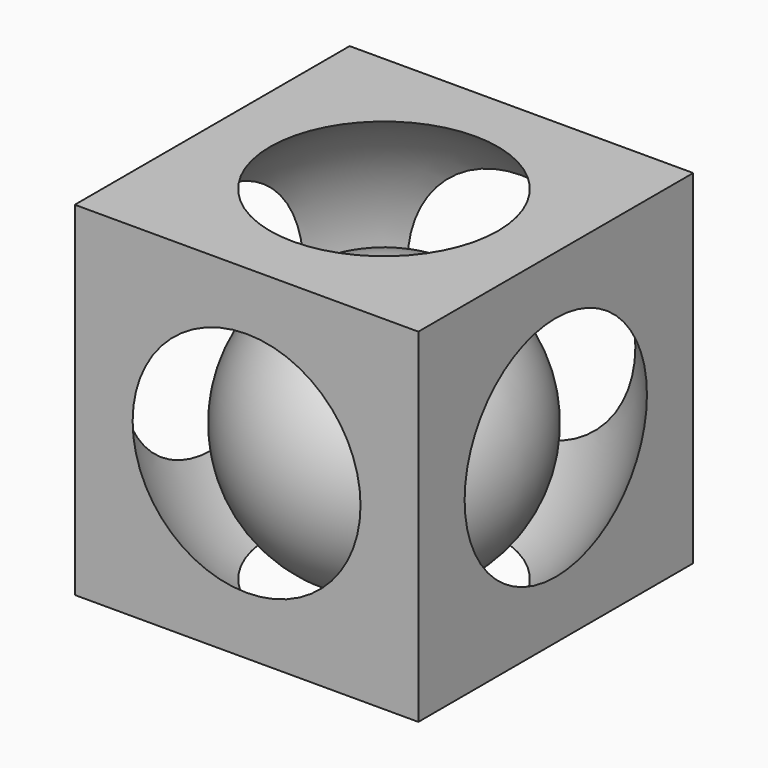
from build123d import *

# Parameters (mm, degrees)
BOX_W     = 30
BOX_H     = 30
BOX_DEPTH = 30


with BuildPart() as esfera_interior:
    # Sphere001 → Sphere001 (revolve)
    with BuildSketch(Plane(origin=(15, 15, 12), x_dir=(1, 0, 0), z_dir=(0, -1, 0))):
        with BuildLine():
            ThreePointArc((0, -12), (12, 0), (0, 12))
            Line((0, 12), (0, -12))
        make_face()
    revolve(axis=Axis((15, 15, 12), (0, 0, 1)))


with BuildPart() as esfera:
    # Sphere → Sphere (revolve)
    with BuildSketch(Plane(origin=(15, 15, 15), x_dir=(1, 0, 0), z_dir=(0, -1, 0))):
        with BuildLine():
            ThreePointArc((0, -18), (18, 0), (0, 18))
            Line((0, 18), (0, -18))
        make_face()
    revolve(axis=Axis((15, 15, 15), (0, 0, 1)))


with BuildPart() as obj1:
    # Box → Box (new body)
    with BuildSketch(Plane.XY):
        with Locations((15, 15)):
            Rectangle(BOX_W, BOX_H)
    extrude(amount=BOX_DEPTH)

    # Cut: cut Esfera
    add(esfera.part, mode=Mode.SUBTRACT)

    # Fusion: union Esfera_interior
    add(esfera_interior.part)


solid = obj1.part
